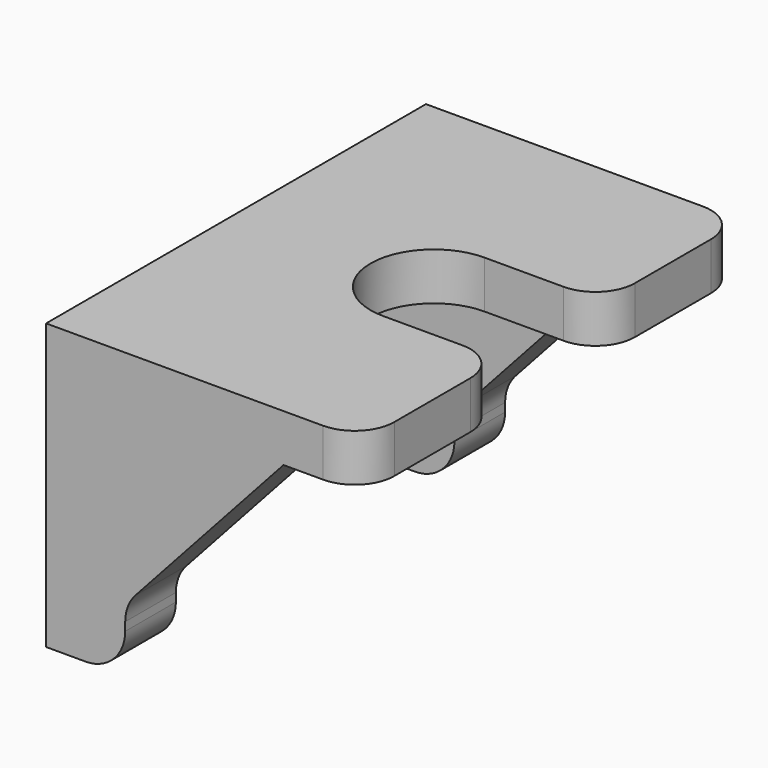
from build123d import *

# Parameters (mm, degrees)
PAD034_DEPTH        = 1.2
PAD035_DEPTH        = 1.6
LINEARPATTERN_COUNT = 2
LINEARPATTERN_PITCH = 10.4
FILLET_R            = 1
FILLET001_R         = 1
FILLET002_R         = 1


with BuildPart() as part:
    # Sketch066 → Pad034 (new body)
    with BuildSketch(Plane.XY):
        with BuildLine():
            Line((-4, 6), (4, 6))
            Line((4, 6), (4, 1.6))
            Line((1, 1.6), (4, 1.6))
            ThreePointArc((1, 1.6), (-0.6, 0), (1, -1.6))
            Line((4, -1.6), (1, -1.6))
            Line((4, -1.6), (4, -6))
            Line((4, -6), (-4, -6))
            Line((-4, -6), (-4, 6))
        make_face()
    extrude(amount=PAD034_DEPTH)

    # Sketch067 (on DatumPlane) → Pad035 (join)
    with BuildSketch(Plane.XZ.offset(6)):
        Polygon((-4, 0), (-4, -6), (-2, -6), (-2, -4.4), (2, 0), align=None)
    pad035 = extrude(amount=-PAD035_DEPTH)

    # LinearPattern: Pad035 ×2
    with Locations(*[(0, i * LINEARPATTERN_PITCH, 0) for i in range(1, LINEARPATTERN_COUNT)]):
        add(pad035)

    # Fillet
    fillet_edges = [part.edges().sort_by_distance(p)[0] for p in [
        (-2, -5.2, -6),
        (-2, 5.2, -6),
    ]]
    fillet(fillet_edges, radius=FILLET_R)

    # Fillet001
    fillet001_edges = [part.edges().sort_by_distance(p)[0] for p in [
        (-2, -5.2, -4.4),
        (-2, 5.2, -4.4),
    ]]
    fillet(fillet001_edges, radius=FILLET001_R)

    # Fillet002
    fillet002_edges = [part.edges().sort_by_distance(p)[0] for p in [
        (4, -6, 0.6),
        (4, -1.6, 0.6),
        (4, 1.6, 0.6),
        (4, 6, 0.6),
    ]]
    fillet(fillet002_edges, radius=FILLET002_R)


with BuildPart() as part_1:
    # Body010 placement: moved
    add(part.part.moved(Location((62, 83, 34.2))))


solid = part_1.part
